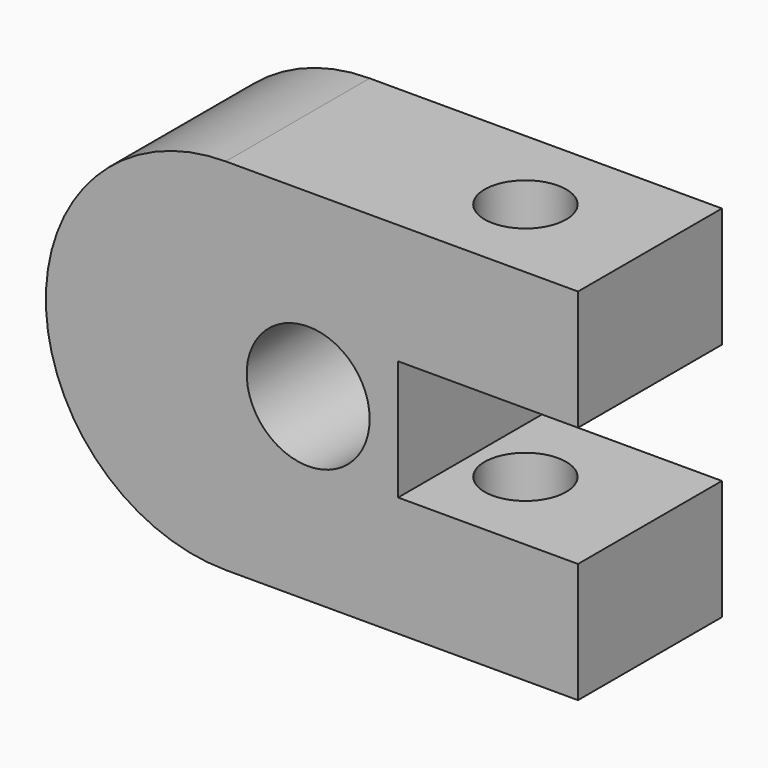
from build123d import *

# Parameters (mm, degrees)
F0_R     = 26.043361
F1_DEPTH = 76.2
F2_R     = 17.27391
F3_DEPTH = 152.4


with BuildPart() as f1:
    # F0 (on Front) → F1 (new body)
    with BuildSketch(Plane.XZ):
        with BuildLine():
            Line((-76.2, 0), (0, 0))
            Line((0, 0), (0, 50.8))
            Line((0, 50.8), (-149.225, 50.8))
            ThreePointArc((-149.225, 50.8), (-225.425, -25.4), (-149.225, -101.6))
            Line((-149.225, -101.6), (0, -101.6))
            Line((0, -101.6), (0, -50.8))
            Line((0, -50.8), (-76.2, -50.8))
            Line((-76.2, -50.8), (-76.2, 0))
        make_face()
        with Locations((-114.3, -25.472846)):
            Circle(F0_R, mode=Mode.SUBTRACT)
    extrude(amount=-F1_DEPTH)

    # F2 (on face) → F3 (cut)
    with BuildSketch(Plane.XY.offset(50.8)):
        with Locations((-52.560348, 37.856806)):
            Circle(F2_R)
    extrude(amount=-F3_DEPTH, mode=Mode.SUBTRACT)


solid = f1.part
